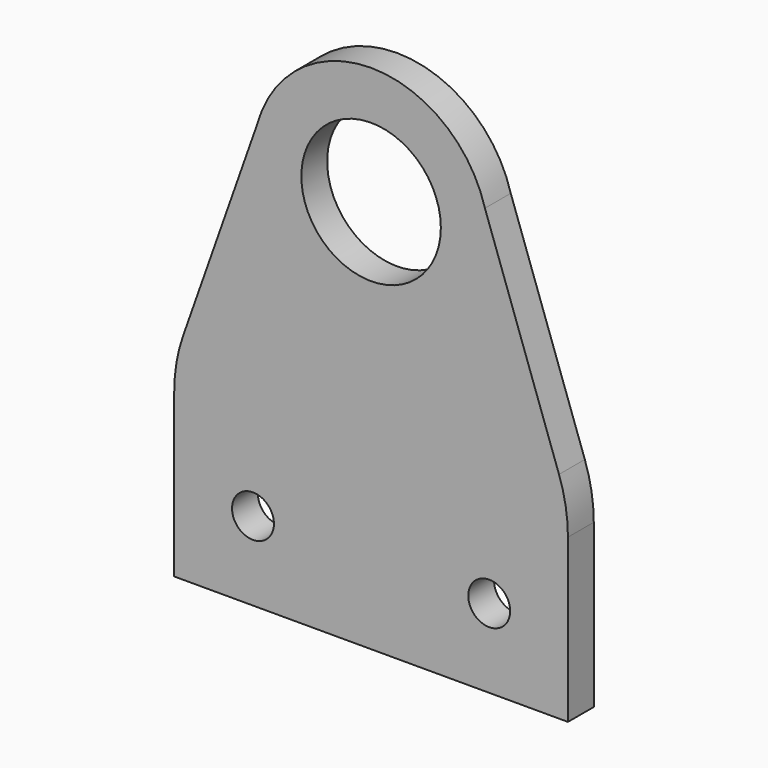
from build123d import *

# Parameters (mm, degrees)
F0_R     = 3.3782
F0_R_2   = 11.25
F1_DEPTH = 5.207


with BuildPart() as f1:
    # F0 (on Front) → F1 (new body)
    with BuildSketch(Plane.XZ):
        with BuildLine():
            Line((-31.75, 26.235259), (-31.75, 0))
            Line((-31.75, 0), (31.75, 0))
            Line((31.75, 0), (31.75, 26.235259))
            ThreePointArc((31.75, 26.235259), (31.386484, 30.517136), (30.306341, 34.676452))
            Line((30.306341, 34.676452), (18.360177, 68.58))
            ThreePointArc((18.360177, 68.58), (0, 82.55), (-18.360177, 68.58))
            Line((-18.360177, 68.58), (-30.306341, 34.676452))
            ThreePointArc((-30.306341, 34.676452), (-31.386484, 30.517136), (-31.75, 26.235259))
        make_face()
        with Locations((-19.05, 12.7)):
            Circle(F0_R, mode=Mode.SUBTRACT)
        with Locations((19.05, 12.7)):
            Circle(F0_R, mode=Mode.SUBTRACT)
        with Locations((0, 63.5)):
            Circle(F0_R_2, mode=Mode.SUBTRACT)
    extrude(amount=F1_DEPTH)


solid = f1.part
